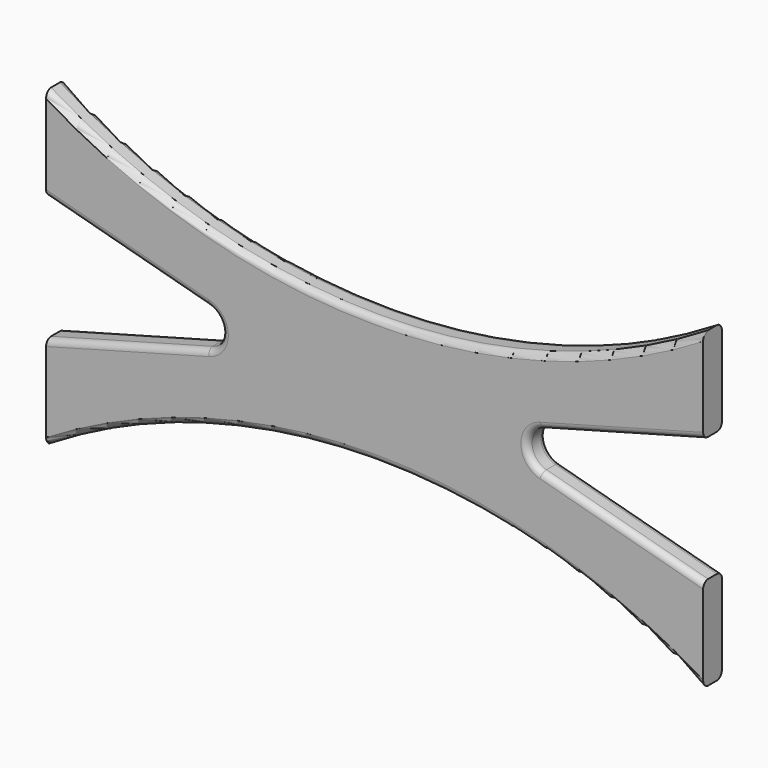
from build123d import *

# Parameters (mm, degrees)
F1_DEPTH = 19.05
F2_R     = 5.08
F3_R     = 5.08


with BuildPart() as f1:
    # F0 (on Front) → F1 (new body)
    with BuildSketch(Plane.XZ):
        with BuildLine():
            Line((135.5546836256, 15.3242284359), (266.7, 50.8))
            Line((266.7, 50.8), (266.7, 127))
            ThreePointArc((266.7, 127), (0, 51.3599310759), (-266.7, 127))
            Line((-266.7, 127), (-266.7, 50.8))
            Line((-266.7, 50.8), (-135.5546836256, 15.3242284359))
            ThreePointArc((-135.5546836256, 15.3242284359), (-123.825, 0), (-135.5546836256, -15.3242284359))
            Line((-135.5546836256, -15.3242284359), (-266.7, -50.8))
            Line((-266.7, -50.8), (-266.7, -127))
            ThreePointArc((-266.7, -127), (0, -51.3599310759), (266.7, -127))
            Line((266.7, -127), (266.7, -50.8))
            Line((266.7, -50.8), (135.5546836256, -15.3242284359))
            ThreePointArc((135.5546836256, -15.3242284359), (123.825, 0), (135.5546836256, 15.3242284359))
        make_face()
    extrude(amount=F1_DEPTH)

    # F2
    f2_edges = [f1.edges().sort_by_distance(p)[0] for p in [
        (0, 0, 51.359931),
        (201.127342, 0, 33.062114),
        (-201.127342, 0, -33.062114),
        (0, 0, -51.359931),
    ]]
    fillet(f2_edges, radius=F2_R)

    # F3
    f3_edges = [f1.edges().sort_by_distance(p)[0] for p in [
        (0, -19.05, 51.359931),
        (-201.127342, -19.05, 33.062114),
        (0, -19.05, -51.359931),
        (201.127342, -5.08, -33.062114),
        (201.127342, -19.05, 33.062114),
    ]]
    fillet(f3_edges, radius=F3_R)


solid = f1.part
